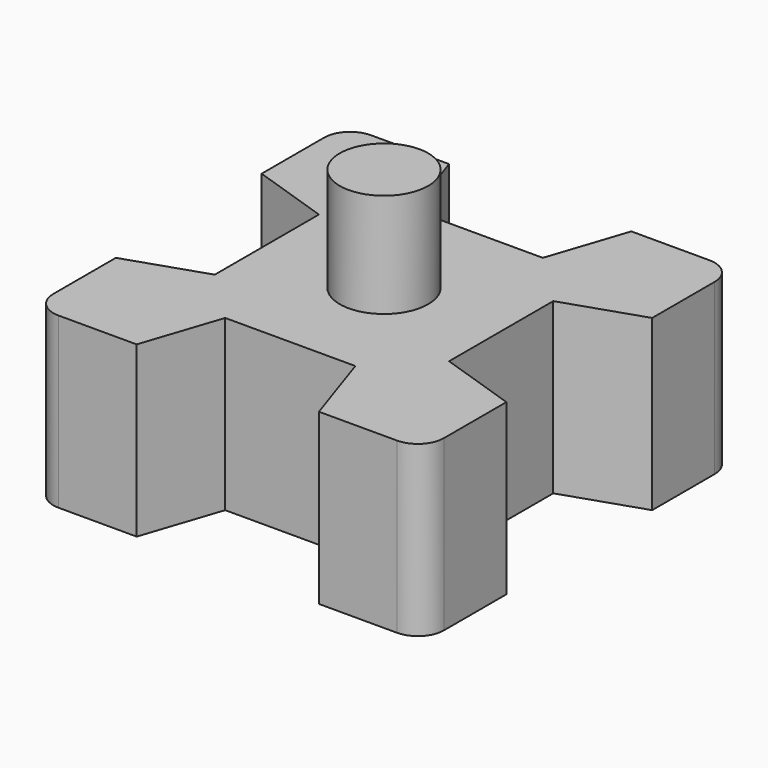
from build123d import *

# Parameters (mm, degrees)
SKETCH073_R     = 1.698831
PAD043_DEPTH    = 4
SKETCH074_W     = 15
SKETCH074_H     = 15
PAD044_DEPTH    = 6.5
SKETCH078_W     = 4
SKETCH078_H     = 4
POCKET033_DEPTH = 6
FILLET006_R     = 1
POCKET047_DEPTH = 7


with BuildPart() as part:
    # Sketch073 → Pad043 (new body)
    with BuildSketch(Plane(origin=(0, 0, 25), x_dir=(1, 0, 0), z_dir=(0, 0, -1))):
        with Locations((5.5, 22.5)):
            Circle(SKETCH073_R)
    extrude(amount=-PAD043_DEPTH)

    # Sketch074 (on Face2 of Pad043) → Pad044 (join)
    with BuildSketch(Plane(origin=(0, 0, 25), x_dir=(1, 0, 0), z_dir=(0, 0, -1))):
        with Locations((5.5, 22.5)):
            Rectangle(SKETCH074_W, SKETCH074_H)
    extrude(amount=PAD044_DEPTH)

    # Sketch078 → Pocket033 (cut)
    with BuildSketch(Plane(origin=(0, 0, 18.5), x_dir=(1, 0, 0), z_dir=(0, 0, -1))):
        with Locations((5.5, 22.5)):
            Rectangle(SKETCH078_W, SKETCH078_H)
    extrude(amount=-POCKET033_DEPTH, mode=Mode.SUBTRACT)

    # Fillet006
    fillet006_edges = [part.edges().sort_by_distance(p)[0] for p in [
        (13, -30, 21.75),
        (13, -15, 21.75),
        (-2, -15, 21.75),
        (-2, -30, 21.75),
    ]]
    fillet(fillet006_edges, radius=FILLET006_R)

    # Sketch096 (on Face5 of Fillet006) → Pocket047 (cut)
    with BuildSketch(Plane(origin=(0, 0, 18.5), x_dir=(1, 0, 0), z_dir=(0, 0, -1))):
        Polygon((3, 27), (8, 27), (9, 30), (2, 30), align=None)
        Polygon((1, 25), (-2, 26), (-2, 19), (1, 20), align=None)
        Polygon((3, 18), (2, 15), (9, 15), (8, 18), align=None)
        Polygon((10, 25), (13, 26), (13, 19), (10, 20), align=None)
    extrude(amount=-POCKET047_DEPTH, mode=Mode.SUBTRACT)


with BuildPart() as part_1:
    # Body007 placement: moved
    add(part.part.moved(Location((0, 0, 4))))


solid = part_1.part
